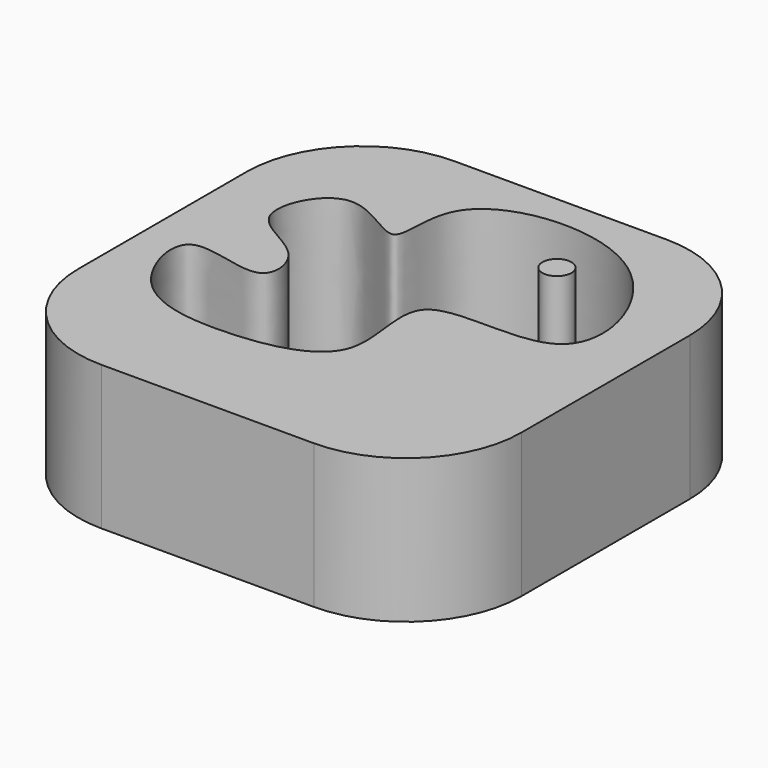
from build123d import *

# Parameters (mm, degrees)
F0_W     = 78.1147256494
F0_H     = 77.7628086507
F1_DEPTH = 25.4
F2_R     = 2.5688843234
F3_DEPTH = 25.401
F4_R     = 20.32


with BuildPart() as f1:
    # F0 (on Top) → F1 (new body)
    with BuildSketch(Plane.XY):
        with Locations((-97.0634482801, 8.1218462437)):
            Rectangle(F0_W, F0_H)
    extrude(amount=F1_DEPTH)

    # F2 (on face) → F3 (cut, through all)
    with BuildSketch(Plane.XY.offset(25.4)):
        with BuildLine():
            add(Edge.make_bspline(
                [(-119.7758167982, 28.7292953581), (-123.8128159833, 28.2668461106), (-129.7333418517, 16.2245566302), (-114.7689644605, 13.4328187252), (-113.3962556405, 0.355762244), (-132.8514740329, 9.9413188066), (-127.3094358115, -10.8133097075), (-109.4870327441, -13.7256500041), (-86.725564806, -9.2834895459), (-98.4611158532, 16.435622845), (-61.2674848303, 5.8112770802), (-72.9826178142, 45.1206525913), (-111.3241843657, 41.7824755339), (-105.249786174, 18.9306842538), (-115.6849363532, 29.1979168505), (-119.7758167982, 28.7292953581)],
                knots=[0, 0, 0, 0, 0.0667687325, 0.135404832, 0.1869717181, 0.2569445656, 0.3252352934, 0.4097528254, 0.4929445081, 0.5708168157, 0.6620309258, 0.7599900289, 0.865220052, 0.9323401146, 1, 1, 1, 1], degree=3))
        make_face()
        with Locations((-84.9185436964, 31.0582052916)):
            Circle(F2_R, mode=Mode.SUBTRACT)
    extrude(amount=-F3_DEPTH, mode=Mode.SUBTRACT)

    # F4
    f4_edges = [f1.edges().sort_by_distance(p)[0] for p in [
        (-58.006085, -30.759558, 12.7),
        (-136.120811, -30.759558, 12.7),
        (-58.006085, 47.003251, 12.7),
        (-136.120811, 47.003251, 12.7),
    ]]
    fillet(f4_edges, radius=F4_R)


solid = f1.part
